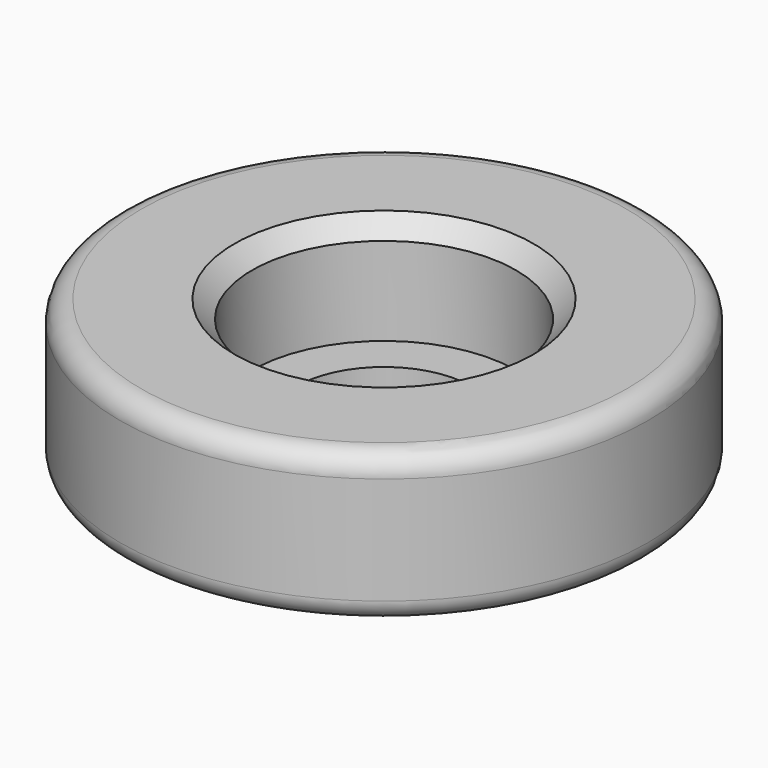
from build123d import *

# Parameters (mm, degrees)
F2_R    = 2.3981299458
F3_SIZE = 2


with BuildPart() as f1:
    # F0 (on Front) → F1 (revolve)
    with BuildSketch(Plane.XZ):
        Polygon((15.5377323945, 17.7536051821), (10.5377323945, 17.7536051821), (10.5377323945, 12.7536051821), (30.5377323945, 12.7536051821), (30.5377323945, 29.7536051821), (15.5377323945, 29.7536051821), align=None)
    revolve(axis=Axis((0.5377323945, 0, 22.511664778), (0, 0, -1)))

    # F2
    f2_edges = [f1.edges().sort_by_distance(p)[0] for p in [
        (-29.462268, 0, 29.753605),
        (-29.462268, 0, 12.753605),
    ]]
    fillet(f2_edges, radius=F2_R)

    # F3
    f3_edges = [f1.edges().sort_by_distance(p)[0] for p in [
        (-14.462268, 0, 29.753605),
    ]]
    chamfer(f3_edges, length=F3_SIZE)


solid = f1.part
